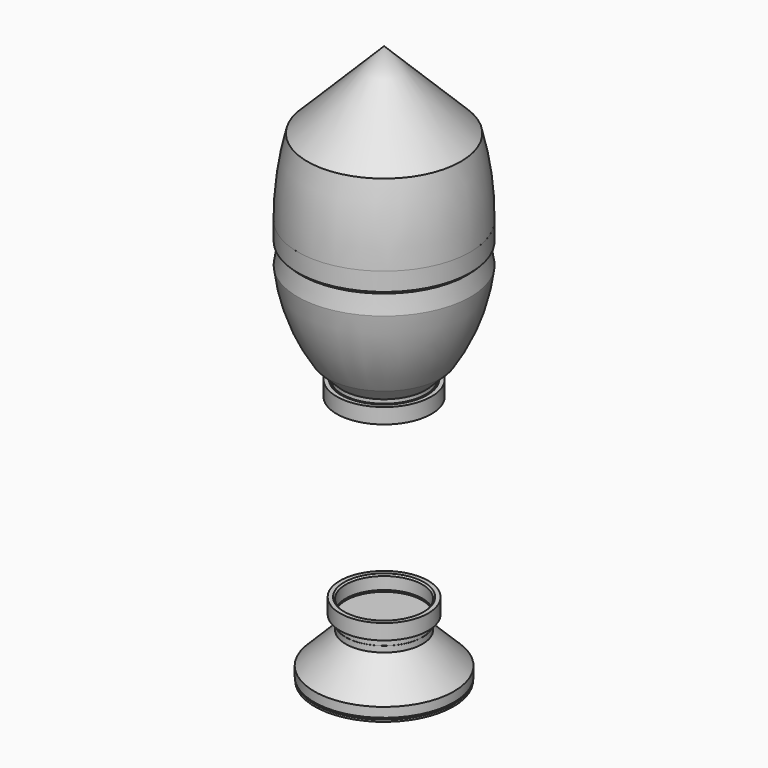
from build123d import *

# Parameters (mm, degrees)
F3_W       = 30.9849511832
F3_H       = 1.6
F7_R       = 21.6
F8_DEPTH   = 8
F11_R      = 19.9
F12_DEPTH  = 4
F13_R      = 36.2
F14_DEPTH  = 2
F15_SIZE   = 1
F15_2_SIZE = 1
F15_3_SIZE = 1
F16_R      = 23
F16_R_2    = 20
F17_DEPTH  = 8
F18_R      = 24.7
F18_R_2    = 21.7
F19_DEPTH  = 8
F20_SIZE   = 0.8
F20_2_SIZE = 0.8


with BuildPart() as f2:
    # F1 (on Front) → F2 (revolve)
    with BuildSketch(Plane.XZ):
        Polygon((40, 112.8116724718), (0, 152.8116724718), (0, 72.8116724718), (40, 72.8116724718), align=None)
        with BuildLine():
            ThreePointArc((45, 72.8116724718), (43.8285562431, 92.9777420022), (40, 112.8116724718))
            Line((40, 112.8116724718), (40, 72.8116724718))
            Line((40, 72.8116724718), (45, 72.8116724718))
        make_face()
    revolve(axis=Axis((0, 0, 9.8116724718), (0, 0, -1)))


with BuildPart() as f4:
    # F3 (on Front) → F4 (revolve)
    with BuildSketch(Plane.XZ):
        Polygon((41, 64.8116724718), (30.9849511832, 64.8116724718), (30.9849511832, 63.2116724718), (41.6, 63.2116724718), (43.2, 64.8116724718), align=None)
        with Locations((15.4924755916, 64.0116724718)):
            Rectangle(F3_W, F3_H)
        Polygon((43, 66.8116724718), (41, 64.8116724718), (43.2, 64.8116724718), (44.6, 66.2116724718), (44.6, 81.8116724718), (44.0744788237, 86.8116724718), (43, 86.8116724718), align=None)
    revolve(axis=Axis((0, 0, 64.0116724718), (0, 0, -1)))


with BuildPart() as f6:
    # F5 (on Front) → F6 (revolve)
    with BuildSketch(Plane.XZ):
        with BuildLine():
            Line((45, 72.9231610894), (0, 72.9231610894))
            Line((0, 72.9231610894), (0, 0))
            Line((0, 0), (21.7, 0))
            Line((21.7, 0), (21.7, 2))
            Line((21.7, 2), (29.5664873946, 9.8664873946))
            ThreePointArc((29.5664873946, 9.8664873946), (39.8430602933, 30.1618453015), (45, 52.3184577677))
            Line((45, 52.3184577677), (43.3635522512, 61.7781333712))
            Line((43.3635522512, 61.7781333712), (45, 63.41458112))
            Line((45, 63.41458112), (45, 72.9231610894))
        make_face()
    revolve(axis=Axis((0, 0, 36.4615805447), (0, 0, -1)))


with BuildPart() as f8:
    # F7 (on face) → F8 (new body)
    with BuildSketch(Plane(origin=(0, 0, 0), x_dir=(1, 0, 0), z_dir=(0, 0, -1))):
        Circle(F7_R)
    extrude(amount=-F8_DEPTH)

    # F15
    f15_edges = [f8.edges().sort_by_distance(p)[0] for p in [
        (-21.6, 0, 8),
    ]]
    chamfer(f15_edges, length=F15_SIZE)


with BuildPart() as f10:
    # F9 (on Front) → F10 (revolve)
    with BuildSketch(Plane.XZ):
        Polygon((20, -112), (0, -112), (0, -136.5), (36.4, -136.5), (36.4, -131.5), (20, -115.1), align=None)
    revolve(axis=Axis((0, 0, -124.25), (0, 0, 1)))


with BuildPart() as f12:
    # F11 (on face) → F12 (new body, symmetric)
    with BuildSketch(Plane.XY.offset(-112)):
        Circle(F11_R)
    extrude(amount=F12_DEPTH, both=True)

    # F15#2
    f15_2_edges = [f12.edges().sort_by_distance(p)[0] for p in [
        (-19.9, 0, -116),
    ]]
    chamfer(f15_2_edges, length=F15_2_SIZE)


with BuildPart() as f14:
    # F13 (on face) → F14 (new body)
    with BuildSketch(Plane(origin=(0, 0, -136.5), x_dir=(1, 0, 0), z_dir=(0, 0, -1))):
        Circle(F13_R)
    extrude(amount=F14_DEPTH)

    # F15#3
    f15_3_edges = [f14.edges().sort_by_distance(p)[0] for p in [
        (-36.2, 0, -136.5),
    ]]
    chamfer(f15_3_edges, length=F15_3_SIZE)


with BuildPart() as f17:
    # F16 (on face) → F17 (new body)
    with BuildSketch(Plane.XY.offset(-108)):
        Circle(F16_R)
        Circle(F16_R_2, mode=Mode.SUBTRACT)
    extrude(amount=F17_DEPTH)

    # F20
    f20_edges = [f17.edges().sort_by_distance(p)[0] for p in [
        (-20, 0, -100),
        (-20, 0, -108),
    ]]
    chamfer(f20_edges, length=F20_SIZE)


with BuildPart() as f19:
    # F18 (on face) → F19 (new body)
    with BuildSketch(Plane(origin=(0, 0, 0), x_dir=(1, 0, 0), z_dir=(0, 0, -1))):
        Circle(F18_R)
        Circle(F18_R_2, mode=Mode.SUBTRACT)
    extrude(amount=F19_DEPTH)

    # F20#2
    f20_2_edges = [f19.edges().sort_by_distance(p)[0] for p in [
        (-21.7, 0, -8),
        (-21.7, 0, 0),
    ]]
    chamfer(f20_2_edges, length=F20_2_SIZE)


solid = Compound([f2.part, f4.part, f6.part, f8.part, f10.part, f12.part, f14.part, f17.part, f19.part])
